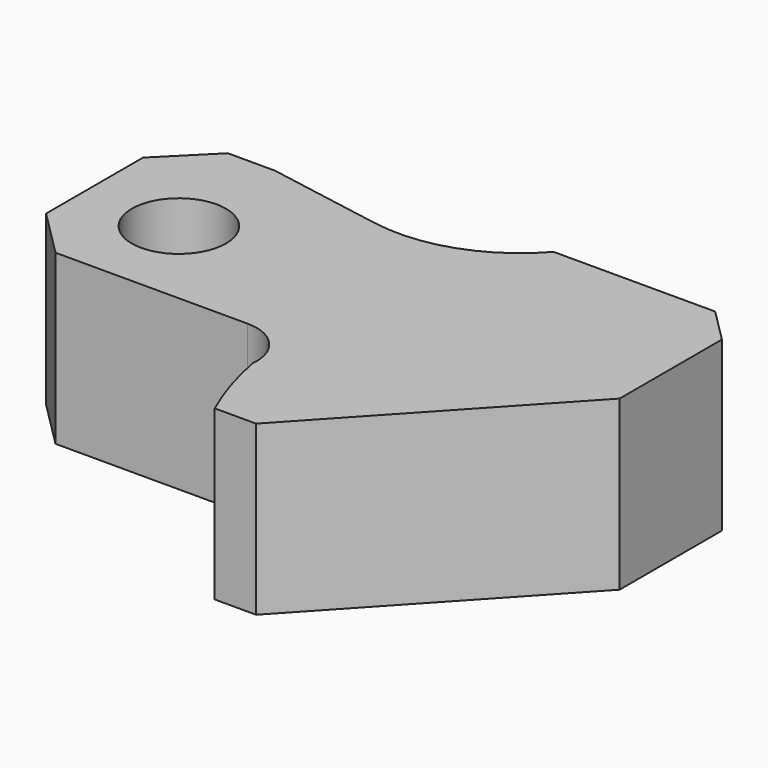
from build123d import *

# Parameters (mm, degrees)
F0_R     = 7
F1_DEPTH = 25


with BuildPart() as f1:
    # F0 (on Top) → F1 (new body)
    with BuildSketch(Plane.XY):
        with BuildLine():
            Line((-14, 10.835116), (-14, -7.164884))
            Line((-14, -7.164884), (-7, -14.164884))
            Line((-7, -14.164884), (21.531938, -14.164884))
            ThreePointArc((21.531938, -14.164884), (26.514214, -16.377042), (28.214635, -21.556355))
            ThreePointArc((28.214635, -21.556355), (29.693689, -27.468479), (31.859744, -33.164884))
            Line((31.859744, -33.164884), (38, -33.164884))
            Line((38, -33.164884), (67, -1.89979))
            Line((67, -1.89979), (67, 17.10021))
            Line((67, 17.10021), (62, 22.10021))
            Line((62, 22.10021), (38, 22.10021))
            ThreePointArc((38, 22.10021), (28.531551, 15.73269), (17.158568, 14.809598))
            Line((17.158568, 14.809598), (0, 17.835116))
            Line((0, 17.835116), (-7, 17.835116))
            Line((-7, 17.835116), (-14, 10.835116))
        make_face()
        Circle(F0_R, mode=Mode.SUBTRACT)
    extrude(amount=F1_DEPTH)


solid = f1.part
